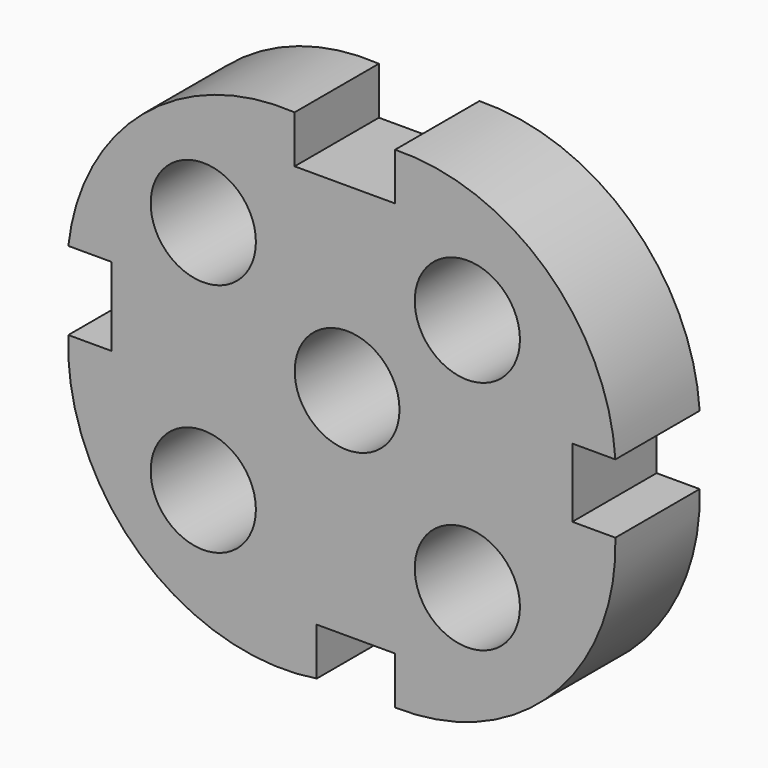
from build123d import *

# Parameters (mm, degrees)
F0_R     = 12.683185
F0_R_2   = 12.629116
F1_DEPTH = 25.4


with BuildPart() as f1:
    # F0 (on Front) → F1 (new body)
    with BuildSketch(Plane.XZ):
        with BuildLine():
            Line((54.29461, -10.215261), (54.29461, 6.396934))
            Line((54.29461, 6.396934), (64.678587, 6.396934))
            ThreePointArc((64.678587, 6.396934), (47.894565, 41.329487), (11.581181, 54.869236))
            Line((11.581181, 54.869236), (11.581181, 43.450589))
            Line((11.581181, 43.450589), (-12.652815, 43.450589))
            Line((-12.652815, 43.450589), (-12.652815, 54.911602))
            ThreePointArc((-12.652815, 54.911602), (-49.127425, 42.752813), (-67.202314, 8.818588))
            Line((-67.202314, 8.818588), (-56.818337, 8.818588))
            Line((-56.818337, 8.818588), (-56.818337, -10.085616))
            Line((-56.818337, -10.085616), (-67.202314, -10.085616))
            ThreePointArc((-67.202314, -10.085616), (-49.926198, -50.996741), (-7.323014, -63.532812))
            Line((-7.323014, -63.532812), (-7.323014, -52.071802))
            Line((-7.323014, -52.071802), (11.581181, -52.071802))
            Line((11.581181, -52.071802), (11.581181, -63.532812))
            ThreePointArc((11.581181, -63.532812), (49.58814, -48.284983), (64.678587, -10.215261))
            Line((64.678587, -10.215261), (54.29461, -10.215261))
        make_face()
        with Locations((-34.668908, -32.428525)):
            Circle(F0_R, mode=Mode.SUBTRACT)
        with Locations((28.988812, -32.428525)):
            Circle(F0_R, mode=Mode.SUBTRACT)
        with Locations((-34.668908, 24.355358)):
            Circle(F0_R, mode=Mode.SUBTRACT)
        Circle(F0_R_2, mode=Mode.SUBTRACT)
        with Locations((28.988812, 24.355358)):
            Circle(F0_R, mode=Mode.SUBTRACT)
    extrude(amount=F1_DEPTH)


solid = f1.part
